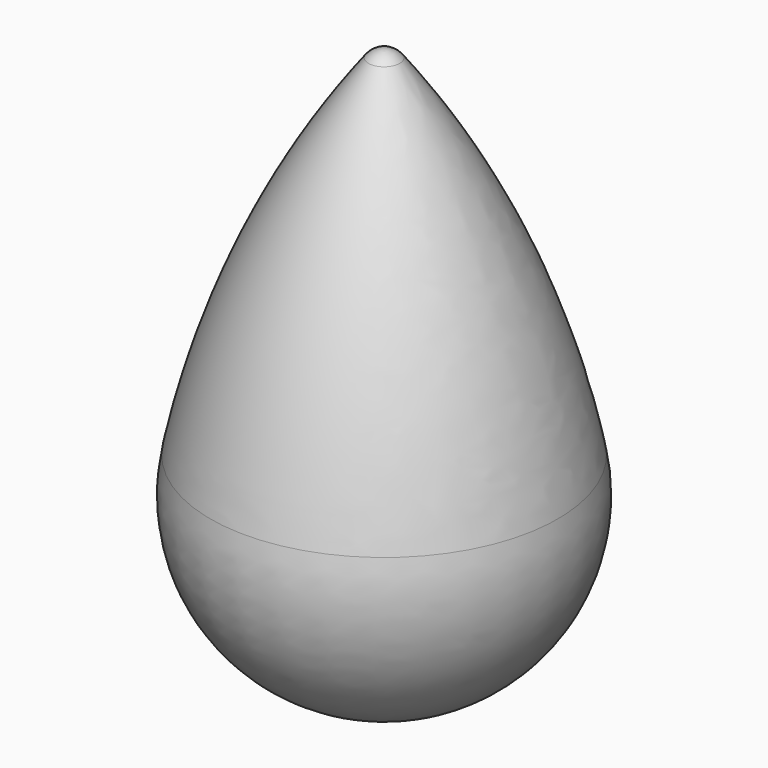
from build123d import *


with BuildPart() as f1:
    # F0 (on Front) → F1 (revolve)
    with BuildSketch(Plane.XZ):
        with BuildLine():
            ThreePointArc((-2.022839, 50.036932), (-14.868026, 28.472774), (-22.58996, 4.590072))
            ThreePointArc((-22.58996, 4.590072), (-17.849138, -14.587095), (0, -23.051574))
            Line((0, -23.051574), (0, 51.040793))
            ThreePointArc((0, 51.040793), (-1.129116, 50.776028), (-2.022839, 50.036932))
        make_face()
    revolve(axis=Axis((0, 0, 13.994609), (0, 0, -1)))


solid = f1.part
